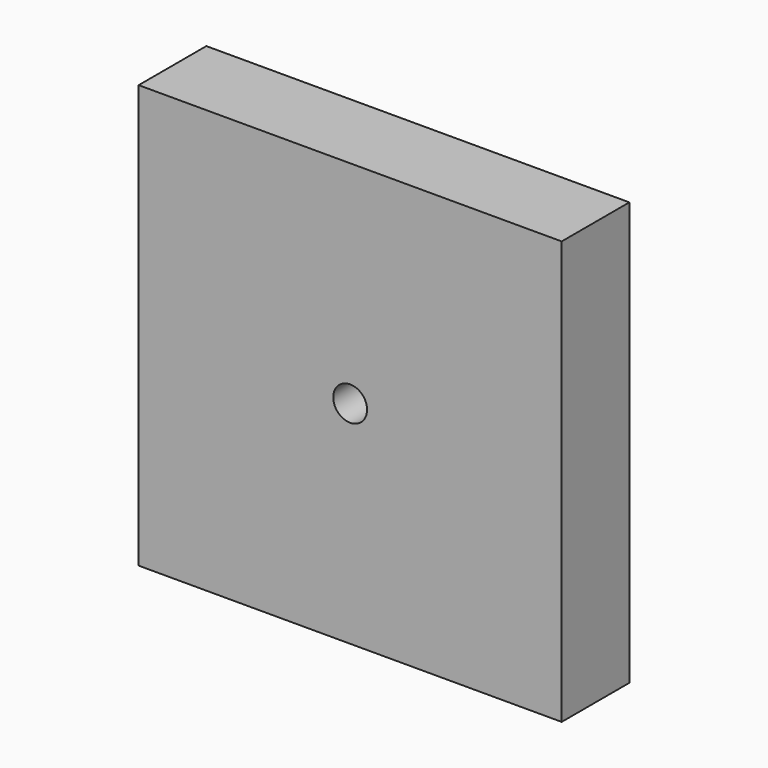
from build123d import *

# Parameters (mm, degrees)
F0_W     = 200
F0_H     = 200
F0_R     = 8
F1_DEPTH = 40


with BuildPart() as f1:
    # F0 (on Front) → F1 (new body)
    with BuildSketch(Plane.XZ):
        Rectangle(F0_W, F0_H)
        Circle(F0_R, mode=Mode.SUBTRACT)
    extrude(amount=-F1_DEPTH)


solid = f1.part
